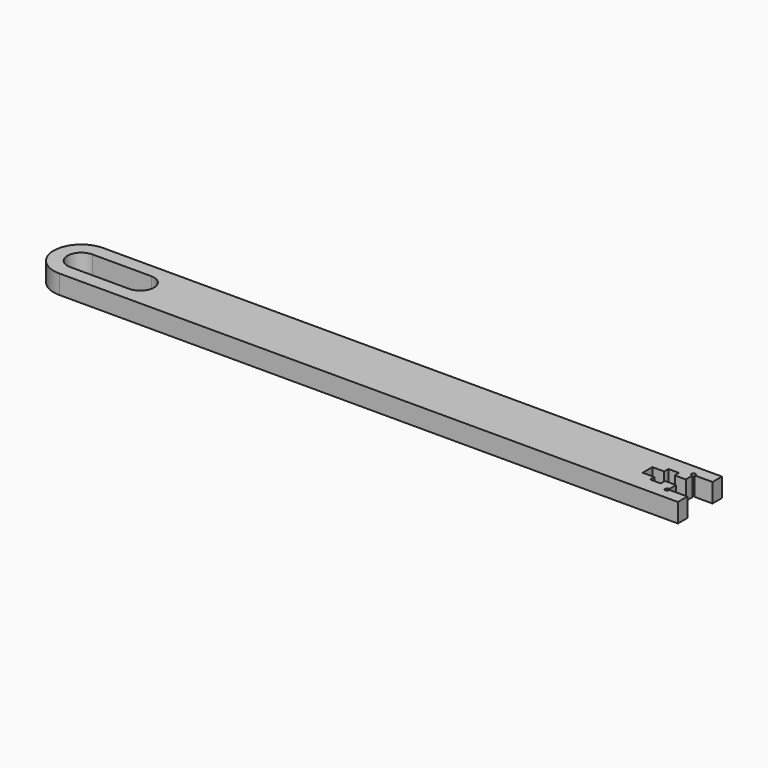
from build123d import *

# Parameters (mm, degrees)
F0_W      = 160
F0_H      = 14
F1_DEPTH  = 4.826
F2_W      = 4.826
F2_H      = 3
F3_DEPTH  = 4.826
F4_DEPTH  = 25
F5_R      = 0.5
F6_DEPTH  = 4.827
F8_DEPTH  = 4.827
F10_DEPTH = 4.827


with BuildPart() as f1:
    # F0 (on Top) → F1 (new body)
    with BuildSketch(Plane.XY):
        Rectangle(F0_W, F0_H)
    extrude(amount=F1_DEPTH)

    # F2 (on face) → F3 (join, through all)
    with BuildSketch(Plane.XY.offset(4.826)):
        with Locations((82.413, 5.5)):
            Rectangle(F2_W, F2_H)
        with Locations((82.413, -5.5)):
            Rectangle(F2_W, F2_H)
    extrude(amount=-F3_DEPTH)

    # F2 (on face) → F4 (cut)
    with BuildSketch(Plane.XY.offset(4.826)):
        Polygon((80, -1.55), (80, 1.55), (77.2, 1.55), (77.2, 2.9), (74.5, 2.9), (74.5, 1.55), (71.5, 1.55), (71.5, -1.55), (74.5, -1.55), (74.5, -2.9), (77.2, -2.9), (77.2, -1.55), align=None)
    extrude(amount=-F4_DEPTH, mode=Mode.SUBTRACT)

    # F5 (on face) → F6 (cut, through all)
    with BuildSketch(Plane.XY.offset(4.826)):
        with Locations((79.823223, 4.176777)):
            Circle(F5_R)
        with Locations((79.823223, -4.176777)):
            Circle(F5_R)
    extrude(amount=-F6_DEPTH, mode=Mode.SUBTRACT)

    # F7 (on face) → F8 (cut, through all)
    with BuildSketch(Plane.XY.offset(4.826)):
        with BuildLine():
            Line((-57.5, 3.5), (-72.5, 3.5))
            ThreePointArc((-72.5, 3.5), (-76, 0), (-72.5, -3.5))
            Line((-72.5, -3.5), (-57.5, -3.5))
            ThreePointArc((-57.5, -3.5), (-54, 0), (-57.5, 3.5))
        make_face()
    extrude(amount=-F8_DEPTH, mode=Mode.SUBTRACT)

    # F9 (on face) → F10 (cut, through all)
    with BuildSketch(Plane.XY.offset(4.826)):
        with BuildLine():
            ThreePointArc((-72.5, -7), (-79.5, 0), (-72.5, 7))
            Line((-72.5, 7), (-80, 7))
            Line((-80, 7), (-80, -7))
            Line((-80, -7), (-72.5, -7))
        make_face()
    extrude(amount=-F10_DEPTH, mode=Mode.SUBTRACT)


solid = f1.part
